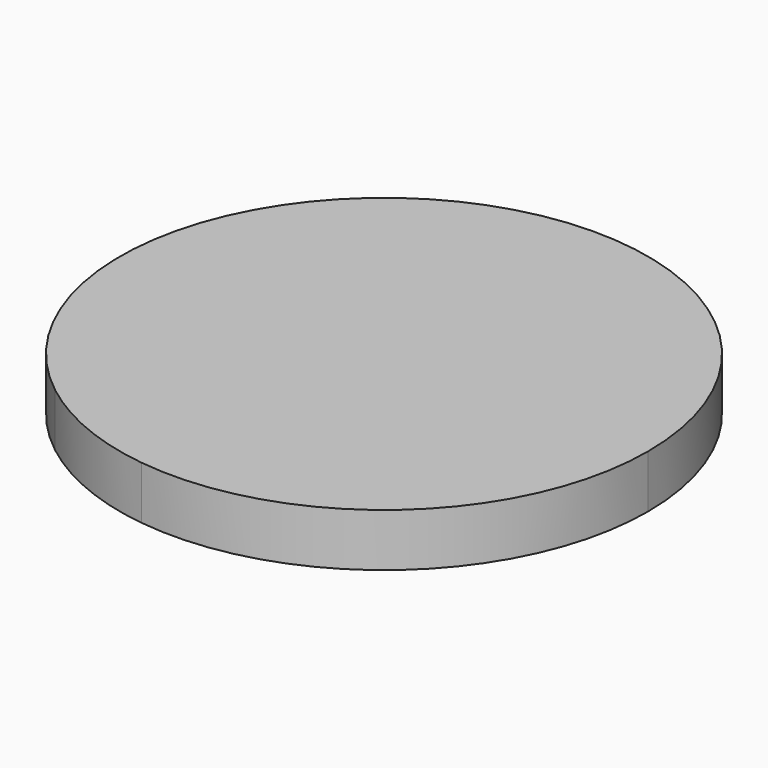
from build123d import *

# Parameters (mm, degrees)
F1_DEPTH = 2.5


with BuildPart() as f1:
    # F0 (on Top) → F1 (new body)
    with BuildSketch(Plane.XY):
        with BuildLine():
            ThreePointArc((-1.56286, -12.363313), (8.240696, -9.347993), (12.461703, 0))
            ThreePointArc((12.461703, 0), (-5.471905, 11.196084), (-7.656301, -9.83235))
            Line((-7.656301, -9.83235), (-3.494203, -4.092034))
            Line((-3.494203, -4.092034), (-7.656301, -5.227912))
            Line((-7.656301, -5.227912), (-1.883301, 1.74245))
            Line((-1.883301, 1.74245), (-6.330649, 0.929954))
            Line((-6.330649, 0.929954), (3.119965, 10.12399))
            Line((3.119965, 10.12399), (-0.429361, 3.538495))
            Line((-0.429361, 3.538495), (3.077202, 4.008887))
            Line((3.077202, 4.008887), (-1.476658, -2.067189))
            Line((-1.476658, -2.067189), (1.558829, -1.750048))
            Line((1.558829, -1.750048), (-2.952375, -8.306845))
            Line((-2.952375, -8.306845), (0.652713, -7.866329))
            Line((0.652713, -7.866329), (-1.56286, -12.363313))
        make_face()
        with BuildLine():
            Line((-3.494203, -4.092034), (-7.656301, -9.83235))
            ThreePointArc((-7.656301, -9.83235), (-4.780133, -11.508448), (-1.56286, -12.363313))
            Line((-1.56286, -12.363313), (0.652713, -7.866329))
            Line((0.652713, -7.866329), (-2.952375, -8.306845))
            Line((-2.952375, -8.306845), (1.558829, -1.750048))
            Line((1.558829, -1.750048), (-1.476658, -2.067189))
            Line((-1.476658, -2.067189), (3.077202, 4.008887))
            Line((3.077202, 4.008887), (-0.429361, 3.538495))
            Line((-0.429361, 3.538495), (3.119965, 10.12399))
            Line((3.119965, 10.12399), (-6.330649, 0.929954))
            Line((-6.330649, 0.929954), (-1.883301, 1.74245))
            Line((-1.883301, 1.74245), (-7.656301, -5.227912))
            Line((-7.656301, -5.227912), (-3.494203, -4.092034))
        make_face()
    extrude(amount=F1_DEPTH)


solid = f1.part
